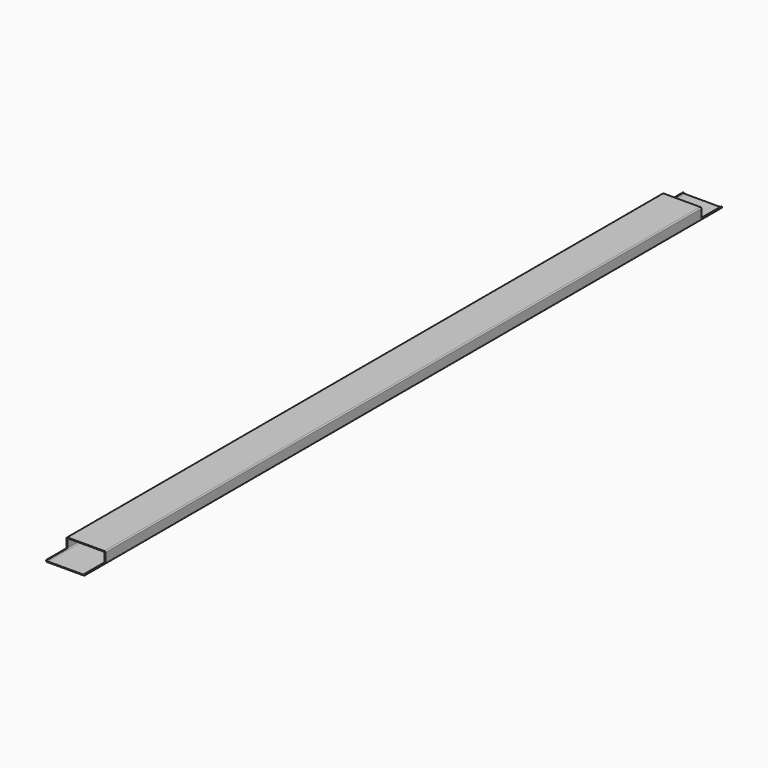
from build123d import *

# Parameters (mm, degrees)
F1_DEPTH      = 38
F1_DEPTH_BACK = 38
F3_DEPTH      = 1555.001
F4_R          = 2


with BuildPart() as f1:
    # F0 (on Right) → F1 (new body, two sides)
    with BuildSketch(Plane.YZ) as f1_sk:
        Polygon((-777.5, -11), (777.5, -11), (777.5, -8), (727.5, -8), (727.5, 11), (-727.5, 11), (-727.5, -8), (-777.5, -8), align=None)
    extrude(amount=F1_DEPTH)
    extrude(f1_sk.sketch, amount=-F1_DEPTH_BACK)

    # F2 (on face) → F3 (cut, through all)
    with BuildSketch(Plane.XZ.offset(777.5)):
        with BuildLine():
            Line((-36.4364916731, -8), (36.4364916731, -8))
            ThreePointArc((36.4364916731, -8), (36.4840593925, -7.752008585), (36.5, -7.5))
            Line((36.5, -7.5), (36.5, 7.5))
            ThreePointArc((36.5, 7.5), (35.9142135624, 8.9142135624), (34.5, 9.5))
            Line((34.5, 9.5), (-34.5, 9.5))
            ThreePointArc((-34.5, 9.5), (-35.9142135624, 8.9142135624), (-36.5, 7.5))
            Line((-36.5, 7.5), (-36.5, -7.5))
            ThreePointArc((-36.5, -7.5), (-36.4840593925, -7.752008585), (-36.4364916731, -8))
        make_face()
        with BuildLine():
            Line((-34.5, -9.5), (34.5, -9.5))
            ThreePointArc((34.5, -9.5), (35.7247448714, -9.0811388301), (36.4364916731, -8))
            Line((36.4364916731, -8), (-36.4364916731, -8))
            ThreePointArc((-36.4364916731, -8), (-35.7247448714, -9.0811388301), (-34.5, -9.5))
        make_face()
    extrude(amount=-F3_DEPTH, mode=Mode.SUBTRACT)

    # F4
    f4_edges = [f1.edges().sort_by_distance(p)[0] for p in [
        (-38, 0, 11),
        (-38, 0, -11),
        (38, 0, -11),
        (38, 0, 11),
    ]]
    fillet(f4_edges, radius=F4_R)


solid = f1.part
